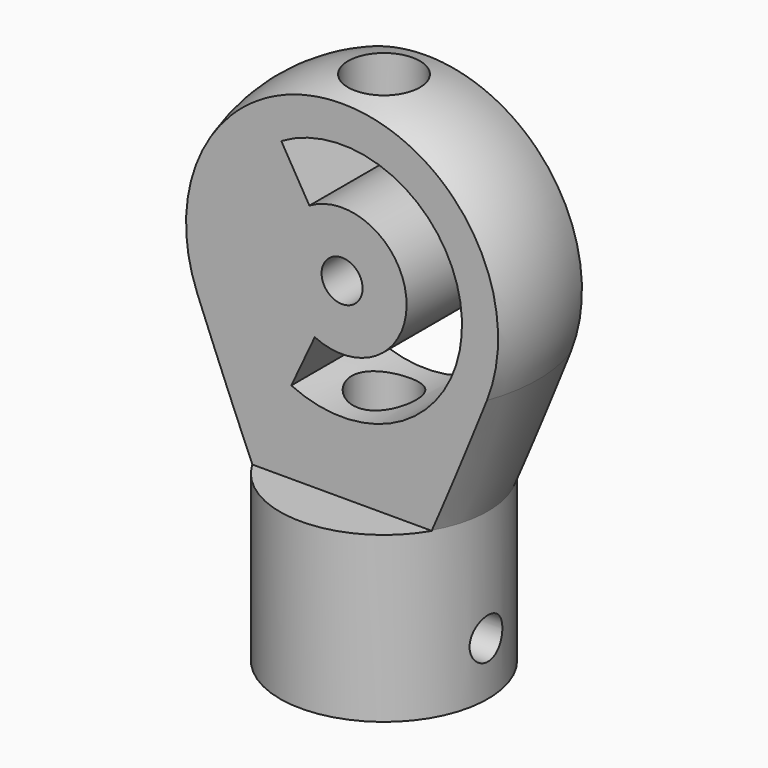
from build123d import *

# Parameters (mm, degrees)
F2_W           = 143.0530622602
F2_H           = 41.3108188659
F3_DEPTH       = 14.2
F4_DEPTH       = 45
F5_R           = 3.175
F6_DEPTH       = 25
F7_R           = 11.27
F7_R_2         = 5.0034619329
F8_DEPTH       = 20.6
F9_DEPTH       = 38.1921002041
F11_R          = 5.5610063416
F12_DEPTH      = 13
F13_R          = 3.175
F14_DEPTH      = 25.5131088414
F14_DEPTH_BACK = 25


with BuildPart() as f1:
    # F0 (on Front) → F1 (revolve)
    with BuildSketch(Plane.XZ):
        with BuildLine():
            ThreePointArc((-23.8617697281, 6.3559776459), (-20.6996107179, 0.4699326202), (-16.1176094264, -4.3931980396))
            Line((-16.1176094264, -4.3931980396), (-16.1176094264, 11.4784657965))
            Line((-16.1176094264, 11.4784657965), (0, 11.4784657965))
            Line((0, 11.4784657965), (0, 40.8949155528))
            ThreePointArc((0, 40.8949155528), (-20.9900112333, 29.8840868605), (-23.8617697281, 6.3559776459))
        make_face()
        with BuildLine():
            ThreePointArc((-16.1176094264, -4.3931980396), (-8.5539497274, -8.6525348005), (0, -10.12930213))
            Line((0, -10.12930213), (0, 11.4784657965))
            Line((0, 11.4784657965), (-16.1176094264, 11.4784657965))
            Line((-16.1176094264, 11.4784657965), (-16.1176094264, -4.3931980396))
        make_face()
        with BuildLine():
            Line((-16.1176094264, -14.11514998), (-16.1176094264, -39.7087657565))
            Line((-16.1176094264, -39.7087657565), (0, -39.7087657565))
            Line((0, -39.7087657565), (0, -10.12930213))
            ThreePointArc((0, -10.12930213), (-8.5539497274, -8.6525348005), (-16.1176094264, -4.3931980396))
            Line((-16.1176094264, -4.3931980396), (-16.1176094264, -14.11514998))
        make_face()
        with BuildLine():
            Line((-23.8617697281, 6.3559776459), (-16.1176094264, -14.11514998))
            Line((-16.1176094264, -14.11514998), (-16.1176094264, -4.3931980396))
            ThreePointArc((-16.1176094264, -4.3931980396), (-20.6996107179, 0.4699326202), (-23.8617697281, 6.3559776459))
        make_face()
    revolve(axis=Axis((0, 0, 1.6492682043), (0, 0, -1)))

    # F2 (on Top) → F3 (cut)
    with BuildSketch(Plane.XY):
        with Locations((1.9829161465, 28.7757953629)):
            Rectangle(F2_W, F2_H)
        with Locations((1.9829161465, -28.7757953629)):
            Rectangle(F2_W, F2_H)
    extrude(amount=-F3_DEPTH, mode=Mode.SUBTRACT)

    # F2 (on Top) → F4 (cut)
    with BuildSketch(Plane.XY):
        with Locations((1.9829161465, 28.7757953629)):
            Rectangle(F2_W, F2_H)
        with Locations((1.9829161465, -28.7757953629)):
            Rectangle(F2_W, F2_H)
    extrude(amount=F4_DEPTH, mode=Mode.SUBTRACT)

    # F5 (on face) → F6 (cut)
    with BuildSketch(Plane(origin=(0, 8.1203859299, 0), x_dir=(-1, 0, 0), z_dir=(0, 1, 0))):
        with BuildLine():
            ThreePointArc((4.2365711861, 6.3245803627), (-9.9889031453, 15.8537779996), (5.0700626603, 24.0022303941))
            Line((5.0700626603, 24.0022303941), (9.4230322282, 31.4025509617))
            ThreePointArc((9.4230322282, 31.4025509617), (-18.5650084761, 16.2581366481), (7.8739355899, -1.4524800561))
            Line((7.8739355899, -1.4524800561), (4.2365711861, 6.3245803627))
        make_face()
        with Locations((0, 15.3828067114)):
            Circle(F5_R)
    extrude(amount=-F6_DEPTH, mode=Mode.SUBTRACT)

    # F7 (on face) → F8 (cut)
    with BuildSketch(Plane(origin=(0, 0, -39.7087657565), x_dir=(1, 0, 0), z_dir=(0, 0, -1))):
        Circle(F7_R)
        Circle(F7_R_2, mode=Mode.SUBTRACT)
    extrude(amount=-F8_DEPTH, mode=Mode.SUBTRACT)

    # F7 (on face) → F9 (cut, up to face)
    with BuildSketch(Plane(origin=(0, 0, -39.7087657565), x_dir=(1, 0, 0), z_dir=(0, 0, -1))):
        Circle(F7_R_2)
    extrude(amount=-F9_DEPTH, mode=Mode.SUBTRACT)

    # F11 (on offset) → F12 (cut)
    with BuildSketch(Plane.XY.offset(41.8)):
        Circle(F11_R)
    extrude(amount=-F12_DEPTH, mode=Mode.SUBTRACT)

    # F13 (on Right) → F14 (cut, two sides)
    with BuildSketch(Plane.YZ) as f14_sk:
        with Locations((0, -31.4537657565)):
            Circle(F13_R)
    extrude(amount=F14_DEPTH, mode=Mode.SUBTRACT)
    extrude(f14_sk.sketch, amount=-F14_DEPTH_BACK, mode=Mode.SUBTRACT)


solid = f1.part
